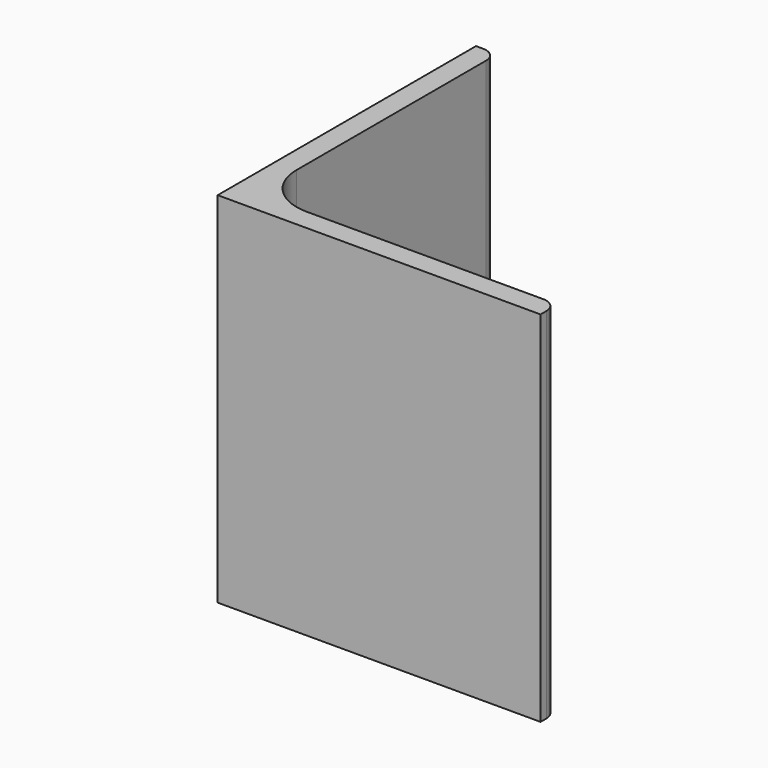
from build123d import *

# Parameters (mm, degrees)
EXTRUDE_DEPTH = 50


with BuildPart() as part:
    # Sketch → Extrude (new body)
    with BuildSketch(Plane.XY):
        with BuildLine():
            Line((0, 0), (45, 0))
            Line((45, 0), (45, 1))
            ThreePointArc((45, 1), (44.414214, 2.414214), (43, 3))
            Line((43, 3), (10, 3))
            ThreePointArc((3, 10), (5.050253, 5.050253), (10, 3))
            Line((3, 43), (3, 10))
            ThreePointArc((3, 43), (2.414214, 44.414214), (1, 45))
            Line((0, 45), (1, 45))
            Line((0, 0), (0, 45))
        make_face()
    extrude(amount=EXTRUDE_DEPTH)


solid = part.part
